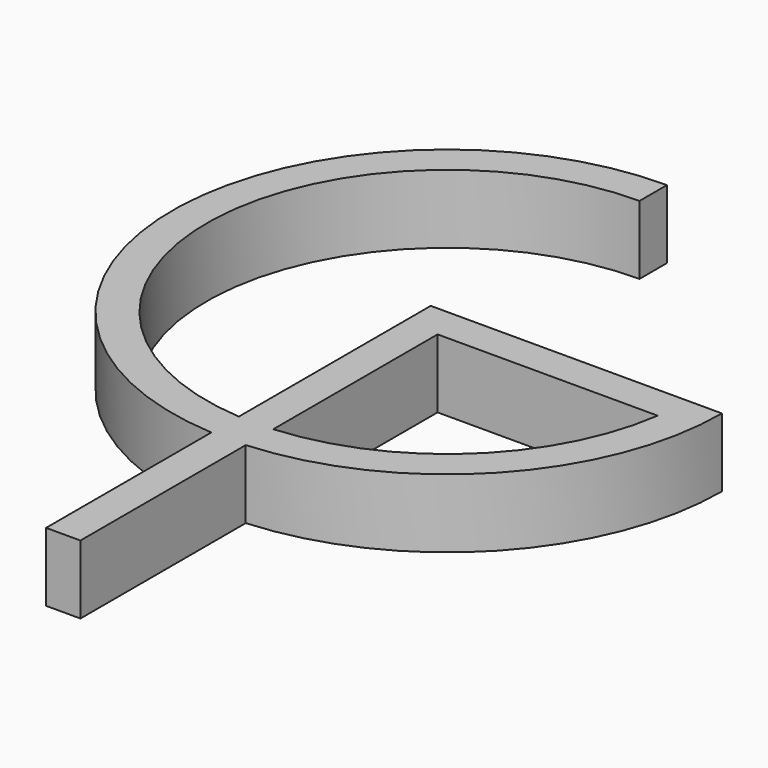
from build123d import *

# Parameters (mm, degrees)
F1_DEPTH = 0.5


with BuildPart() as f1:
    # F0 (on Top) → F1 (new body)
    with BuildSketch(Plane.XY):
        with BuildLine():
            Line((0, -0.25), (0, 0))
            ThreePointArc((0, 0), (-1.9990989856, -1.9399729574), (-0.12, -3.9963967542))
            Line((-0.12, -3.9963967542), (-0.12, -3.7458808665))
            ThreePointArc((-0.12, -3.7458808665), (-1.7489699135, -1.9399646619), (0, -0.25))
        make_face()
        with BuildLine():
            Line((-0.12, -2), (-0.12, -3.7458808665))
            ThreePointArc((-0.12, -3.7458808665), (0.0050128042, -3.7499928205), (0.13, -3.7451647487))
            Line((0.13, -3.7451647487), (0.13, -2.25))
            Line((0.13, -2.25), (1.7320508076, -2.25))
            ThreePointArc((1.7320508076, -2.25), (1.745506934, -2.1253217594), (1.75, -2))
            Line((1.75, -2), (-0.12, -2))
        make_face()
        with BuildLine():
            Line((0.13, -3.7451647487), (0.13, -3.9957705279))
            ThreePointArc((0.13, -3.9957705279), (1.4594519519, -3.3674794331), (2, -2))
            Line((2, -2), (1.75, -2))
            ThreePointArc((1.75, -2), (1.745506934, -2.1253217594), (1.7320508076, -2.25))
            ThreePointArc((1.7320508076, -2.25), (1.1940216535, -3.2793796509), (0.13, -3.7451647487))
        make_face()
        with BuildLine():
            Line((-0.12, -3.7458808665), (-0.12, -3.9963967542))
            ThreePointArc((-0.12, -3.9963967542), (0.0050097944, -3.9999937255), (0.13, -3.9957705279))
            Line((0.13, -3.9957705279), (0.13, -3.7451647487))
            ThreePointArc((0.13, -3.7451647487), (0.0050128042, -3.7499928205), (-0.12, -3.7458808665))
        make_face()
        with BuildLine():
            ThreePointArc((0.13, -3.9957705279), (0.0050097944, -3.9999937255), (-0.12, -3.9963967542))
            Line((-0.12, -3.9963967542), (-0.12, -5.5))
            Line((-0.12, -5.5), (0.13, -5.5))
            Line((0.13, -5.5), (0.13, -3.9957705279))
        make_face()
    extrude(amount=F1_DEPTH)


solid = f1.part
